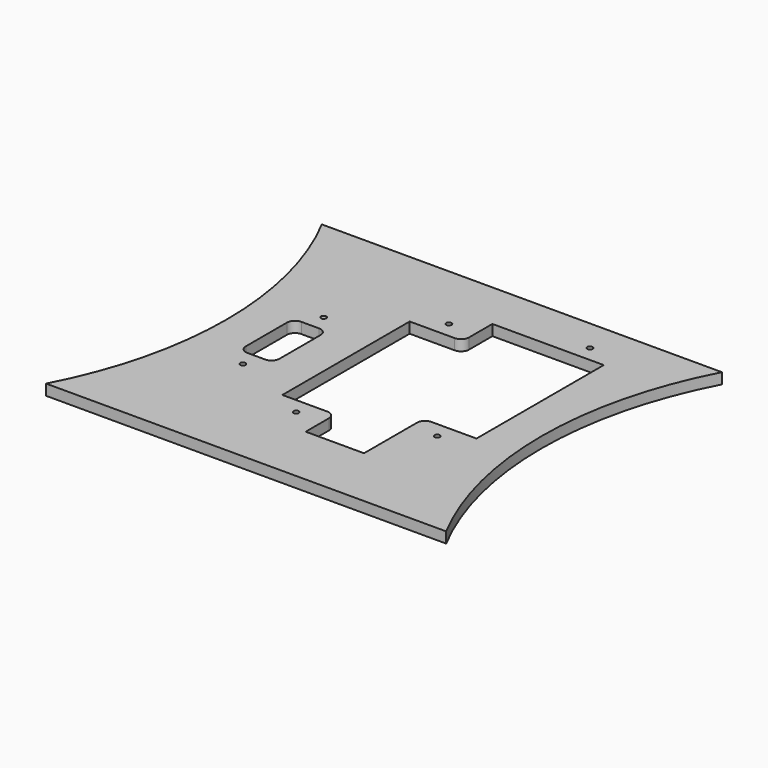
from build123d import *

# Parameters (mm, degrees)
F0_R     = 0.5
F1_DEPTH = 2.032


with BuildPart() as f1:
    # F0 (on Top) → F1 (new body)
    with BuildSketch(Plane.XY):
        with BuildLine():
            ThreePointArc((-8, 32.5), (0, 0), (-8, -32.5))
            Line((-8, -32.5), (67.43, -32.5))
            ThreePointArc((67.43, -32.5), (59.43, 0), (67.43, 32.5))
            Line((67.43, 32.5), (-8, 32.5))
        make_face()
        with Locations((26.43, -16.6)):
            Circle(F0_R, mode=Mode.SUBTRACT)
        with Locations((10.715, -9.525)):
            Circle(F0_R, mode=Mode.SUBTRACT)
        with Locations((47.43, -9.6)):
            Circle(F0_R, mode=Mode.SUBTRACT)
        with BuildLine():
            Line((13.89, 4.85), (13.89, -4.85))
            ThreePointArc((13.89, -4.85), (13.45066, -5.91066), (12.39, -6.35))
            Line((12.39, -6.35), (9.04, -6.35))
            ThreePointArc((9.04, -6.35), (7.97934, -5.91066), (7.54, -4.85))
            Line((7.54, -4.85), (7.54, 4.85))
            ThreePointArc((7.54, 4.85), (7.97934, 5.91066), (9.04, 6.35))
            Line((9.04, 6.35), (12.39, 6.35))
            ThreePointArc((12.39, 6.35), (13.45066, 5.91066), (13.89, 4.85))
        make_face(mode=Mode.SUBTRACT)
        with Locations((10.715, 9.525)):
            Circle(F0_R, mode=Mode.SUBTRACT)
        with Locations((26.43, 19.4)):
            Circle(F0_R, mode=Mode.SUBTRACT)
        with BuildLine():
            Line((52.43, 23.4), (52.43, -6.6))
            Line((52.43, -6.6), (43.93, -6.6))
            ThreePointArc((43.93, -6.6), (42.86934, -7.03934), (42.43, -8.1))
            Line((42.43, -8.1), (42.43, -20.6))
            Line((42.43, -20.6), (31.43, -20.6))
            Line((31.43, -20.6), (31.43, -15.1))
            ThreePointArc((31.43, -15.1), (30.99066, -14.03934), (29.93, -13.6))
            Line((29.93, -13.6), (21.43, -13.6))
            Line((21.43, -13.6), (21.43, 16.4))
            Line((21.43, 16.4), (29.93, 16.4))
            ThreePointArc((29.93, 16.4), (30.99066, 16.83934), (31.43, 17.9))
            Line((31.43, 17.9), (31.43, 23.4))
            Line((31.43, 23.4), (52.43, 23.4))
        make_face(mode=Mode.SUBTRACT)
        with Locations((47.43, 26.4)):
            Circle(F0_R, mode=Mode.SUBTRACT)
    extrude(amount=F1_DEPTH)


solid = f1.part
